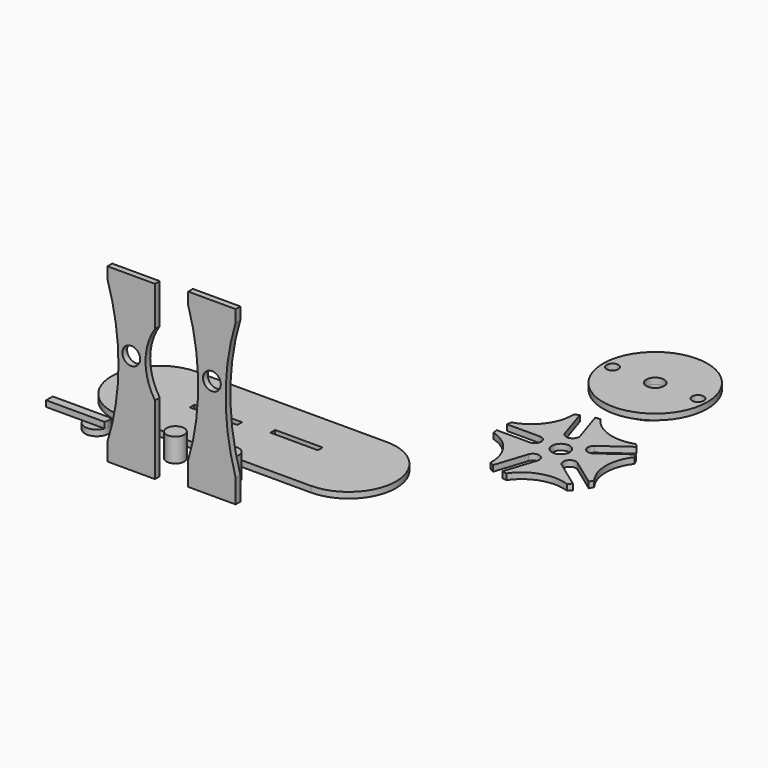
from build123d import *

# Parameters (mm, degrees)
F1_DEPTH  = 3.175
F2_R      = 4.7625
F4_DEPTH  = 3.175
F5_DEPTH  = 3.175
F2_R_2    = 27.94
F2_R_3    = 3.175
F6_DEPTH  = 3.175
F8_DEPTH  = 3.175
F7_W      = 25.4
F7_H      = 3.175
F9_DEPTH  = 3.175
F10_DEPTH = 3.175
F11_DEPTH = 88.9
F13_DEPTH = 3.175
F14_DEPTH = 3.175
F16_DEPTH = 3.175
F17_DEPTH = 3.175
F12_R     = 4.7625
F18_DEPTH = 3.175
F15_R     = 4.7625
F19_DEPTH = 3.175
F20_DEPTH = 3.175
F21_R     = 4.7625
F22_DEPTH = 12.7
F21_R_2   = 6.35
F23_DEPTH = 3.175
F25_DEPTH = 3.175
F26_DEPTH = 12.7


with BuildPart() as f1:
    # F0 (on Top) → F1 (new body)
    with BuildSketch(Plane.XY):
        with BuildLine():
            Line((63.5, 25.4), (-38.1, 25.4))
            ThreePointArc((-38.1, 25.4), (-63.5, 0), (-38.1, -25.4))
            Line((-38.1, -25.4), (63.5, -25.4))
            ThreePointArc((63.5, -25.4), (88.9, 0), (63.5, 25.4))
        make_face()
    extrude(amount=F1_DEPTH)

    # F7 (on face) → F9 (cut)
    with BuildSketch(Plane.XY.offset(3.175)):
        with Locations((-7.62, 0)):
            Rectangle(F7_W, F7_H)
    extrude(amount=-F9_DEPTH, mode=Mode.SUBTRACT)

    # F7 (on face) → F10 (cut)
    with BuildSketch(Plane.XY.offset(3.175)):
        with Locations((33.02, 3.175)):
            Rectangle(F7_W, F7_H)
    extrude(amount=-F10_DEPTH, mode=Mode.SUBTRACT)


with BuildPart() as f4:
    # F2 (on Top) → F4 (new body)
    with BuildSketch(Plane.XY):
        with BuildLine():
            ThreePointArc((120.3612832322, 34.4193587213), (131.809729009, 42.968420609), (146.0967287001, 42.7813118451))
            ThreePointArc((146.0967287001, 42.7813118451), (147.0032712022, 43.6680444399), (147.873681045, 44.5902703929))
            Line((147.873681045, 44.5902703929), (133.639600716, 54.9319350989))
            ThreePointArc((133.639600716, 54.9319350989), (132.8809970724, 59.7215700028), (137.6706319762, 60.4801736464))
            Line((137.6706319762, 60.4801736464), (151.9047123053, 50.1385089403))
            ThreePointArc((151.9047123053, 50.1385089403), (152.5128298738, 51.2513013853), (153.076025647, 52.3874899805))
            ThreePointArc((153.076025647, 52.3874899805), (148.4831489347, 65.9174143472), (153.076025647, 79.4473387139))
            ThreePointArc((153.076025647, 79.4473387139), (152.5128298738, 80.583527309), (151.9047123053, 81.6963197541))
            Line((151.9047123053, 81.6963197541), (137.6706319762, 71.354655048))
            ThreePointArc((137.6706319762, 71.354655048), (132.8809970724, 72.1132586916), (133.639600716, 76.9028935954))
            Line((133.639600716, 76.9028935954), (147.873681045, 87.2445583015))
            ThreePointArc((147.873681045, 87.2445583015), (147.0032712022, 88.1667842544), (146.0967287001, 89.0535168493))
            ThreePointArc((146.0967287001, 89.0535168493), (131.809729009, 88.8664080854), (120.3612832322, 97.4154699731))
            ThreePointArc((120.3612832322, 97.4154699731), (119.1066666, 97.2309405477), (117.8604194306, 96.9964581482))
            Line((117.8604194306, 96.9964581482), (123.2973543177, 80.2632931535))
            ThreePointArc((123.2973543177, 80.2632931535), (121.095800797, 75.9425010854), (116.7750087289, 78.1440546061))
            Line((116.7750087289, 78.1440546061), (111.3380738418, 94.8772196008))
            ThreePointArc((111.3380738418, 94.8772196008), (110.1920134063, 94.33439414), (109.0685435545, 93.7462364274))
            ThreePointArc((109.0685435545, 93.7462364274), (104.8315688605, 80.100672485), (93.1631635397, 71.8543589368))
            ThreePointArc((93.1631635397, 71.8543589368), (92.9509635914, 70.6041248848), (92.7888580509, 69.3464143472))
            Line((92.7888580509, 69.3464143472), (110.3831489347, 69.3464143472))
            ThreePointArc((110.3831489347, 69.3464143472), (113.8121489347, 65.9174143472), (110.3831489347, 62.4884143472))
            Line((110.3831489347, 62.4884143472), (92.7888580509, 62.4884143472))
            ThreePointArc((92.7888580509, 62.4884143472), (92.9509635914, 61.2307038095), (93.1631635397, 59.9804697575))
            ThreePointArc((93.1631635397, 59.9804697575), (104.8315688605, 51.7341562094), (109.0685435545, 38.088592267))
            ThreePointArc((109.0685435545, 38.088592267), (110.1920134063, 37.5004345544), (111.3380738418, 36.9576090936))
            Line((111.3380738418, 36.9576090936), (116.7750087289, 53.6907740882))
            ThreePointArc((116.7750087289, 53.6907740882), (121.095800797, 55.8923276089), (123.2973543177, 51.5715355408))
            Line((123.2973543177, 51.5715355408), (117.8604194306, 34.8383705461))
            ThreePointArc((117.8604194306, 34.8383705461), (119.1066666, 34.6038881466), (120.3612832322, 34.4193587213))
        make_face()
        with Locations((124.3531489347, 65.9174143472)):
            Circle(F2_R, mode=Mode.SUBTRACT)
    extrude(amount=F4_DEPTH)

    # F2 (on Top) → F8 (join)
    with BuildSketch(Plane.XY):
        with BuildLine():
            ThreePointArc((120.3612832322, 34.4193587213), (131.809729009, 42.968420609), (146.0967287001, 42.7813118451))
            ThreePointArc((146.0967287001, 42.7813118451), (147.0032712022, 43.6680444399), (147.873681045, 44.5902703929))
            Line((147.873681045, 44.5902703929), (133.639600716, 54.9319350989))
            ThreePointArc((133.639600716, 54.9319350989), (132.8809970724, 59.7215700028), (137.6706319762, 60.4801736464))
            Line((137.6706319762, 60.4801736464), (151.9047123053, 50.1385089403))
            ThreePointArc((151.9047123053, 50.1385089403), (152.5128298738, 51.2513013853), (153.076025647, 52.3874899805))
            ThreePointArc((153.076025647, 52.3874899805), (148.4831489347, 65.9174143472), (153.076025647, 79.4473387139))
            ThreePointArc((153.076025647, 79.4473387139), (152.5128298738, 80.583527309), (151.9047123053, 81.6963197541))
            Line((151.9047123053, 81.6963197541), (137.6706319762, 71.354655048))
            ThreePointArc((137.6706319762, 71.354655048), (132.8809970724, 72.1132586916), (133.639600716, 76.9028935954))
            Line((133.639600716, 76.9028935954), (147.873681045, 87.2445583015))
            ThreePointArc((147.873681045, 87.2445583015), (147.0032712022, 88.1667842544), (146.0967287001, 89.0535168493))
            ThreePointArc((146.0967287001, 89.0535168493), (131.809729009, 88.8664080854), (120.3612832322, 97.4154699731))
            ThreePointArc((120.3612832322, 97.4154699731), (119.1066666, 97.2309405477), (117.8604194306, 96.9964581482))
            Line((117.8604194306, 96.9964581482), (123.2973543177, 80.2632931535))
            ThreePointArc((123.2973543177, 80.2632931535), (121.095800797, 75.9425010854), (116.7750087289, 78.1440546061))
            Line((116.7750087289, 78.1440546061), (111.3380738418, 94.8772196008))
            ThreePointArc((111.3380738418, 94.8772196008), (110.1920134063, 94.33439414), (109.0685435545, 93.7462364274))
            ThreePointArc((109.0685435545, 93.7462364274), (104.8315688605, 80.100672485), (93.1631635397, 71.8543589368))
            ThreePointArc((93.1631635397, 71.8543589368), (92.9509635914, 70.6041248848), (92.7888580509, 69.3464143472))
            Line((92.7888580509, 69.3464143472), (110.3831489347, 69.3464143472))
            ThreePointArc((110.3831489347, 69.3464143472), (113.8121489347, 65.9174143472), (110.3831489347, 62.4884143472))
            Line((110.3831489347, 62.4884143472), (92.7888580509, 62.4884143472))
            ThreePointArc((92.7888580509, 62.4884143472), (92.9509635914, 61.2307038095), (93.1631635397, 59.9804697575))
            ThreePointArc((93.1631635397, 59.9804697575), (104.8315688605, 51.7341562094), (109.0685435545, 38.088592267))
            ThreePointArc((109.0685435545, 38.088592267), (110.1920134063, 37.5004345544), (111.3380738418, 36.9576090936))
            Line((111.3380738418, 36.9576090936), (116.7750087289, 53.6907740882))
            ThreePointArc((116.7750087289, 53.6907740882), (121.095800797, 55.8923276089), (123.2973543177, 51.5715355408))
            Line((123.2973543177, 51.5715355408), (117.8604194306, 34.8383705461))
            ThreePointArc((117.8604194306, 34.8383705461), (119.1066666, 34.6038881466), (120.3612832322, 34.4193587213))
        make_face()
        with Locations((124.3531489347, 65.9174143472)):
            Circle(F2_R, mode=Mode.SUBTRACT)
    extrude(amount=F8_DEPTH)


with BuildPart() as f5:
    # F2 (on Top) → F5 (new body)
    with BuildSketch(Plane.XY):
        with BuildLine():
            ThreePointArc((130.021378454, 118.8906994246), (124.068253454, 137.399717233), (130.021378454, 155.9087350415))
            ThreePointArc((130.021378454, 155.9087350415), (117.718253454, 159.624717233), (105.415128454, 155.9087350415))
            ThreePointArc((105.415128454, 155.9087350415), (111.368253454, 137.399717233), (105.415128454, 118.8906994246))
            ThreePointArc((105.415128454, 118.8906994246), (117.718253454, 115.174717233), (130.021378454, 118.8906994246))
        make_face()
        with Locations((117.718253454, 137.399717233)):
            Circle(F2_R, mode=Mode.SUBTRACT)
    extrude(amount=F5_DEPTH)

    # F2 (on Top) → F6 (join)
    with BuildSketch(Plane.XY):
        with Locations((117.718253454, 137.399717233)):
            Circle(F2_R_2)
        with Locations((94.858253454, 137.399717233)):
            Circle(F2_R_3, mode=Mode.SUBTRACT)
        with BuildLine():
            ThreePointArc((105.415128454, 155.9087350415), (117.718253454, 159.624717233), (130.021378454, 155.9087350415))
            ThreePointArc((130.021378454, 155.9087350415), (124.068253454, 137.399717233), (130.021378454, 118.8906994246))
            ThreePointArc((130.021378454, 118.8906994246), (117.718253454, 115.174717233), (105.415128454, 118.8906994246))
            ThreePointArc((105.415128454, 118.8906994246), (111.368253454, 137.399717233), (105.415128454, 155.9087350415))
        make_face(mode=Mode.SUBTRACT)
        with Locations((140.578253454, 137.399717233)):
            Circle(F2_R_3, mode=Mode.SUBTRACT)
    extrude(amount=F6_DEPTH)


with BuildPart() as f11:
    # F7 (on face) → F11 (new body)
    with BuildSketch(Plane.XY.offset(3.175)):
        with Locations((-7.62, -55.0611902535)):
            Rectangle(F7_W, F7_H)
    extrude(amount=F11_DEPTH)

    # F7 (on face) → F13 (join)
    with BuildSketch(Plane.XY.offset(3.175)):
        with Locations((-7.62, -55.0611902535)):
            Rectangle(F7_W, F7_H)
    extrude(amount=-F13_DEPTH)

    # F15 (on face) → F16 (cut)
    with BuildSketch(Plane.XZ.offset(56.6486902535)):
        with BuildLine():
            Line((5.08, 37.126546065), (5.08, 70.823453935))
            ThreePointArc((5.08, 70.823453935), (0, 53.975), (5.08, 37.126546065))
        make_face()
        with BuildLine():
            ThreePointArc((-20.32, 9.525), (-14.47027858, 47.625), (-20.32, 85.725))
            Line((-20.32, 85.725), (-20.32, 9.525))
        make_face()
    extrude(amount=-F16_DEPTH, mode=Mode.SUBTRACT)

    # F15 (on face) → F19 (cut)
    with BuildSketch(Plane.XZ.offset(56.6486902535)):
        with Locations((-7.62, 53.975)):
            Circle(F15_R)
    extrude(amount=-F19_DEPTH, mode=Mode.SUBTRACT)


with BuildPart() as f11b:
    # F7 (on face) → F11, piece 2 (new body)
    with BuildSketch(Plane.XY.offset(3.175)):
        with Locations((33.02, -51.8861902535)):
            Rectangle(F7_W, F7_H)
    extrude(amount=F11_DEPTH)

    # F7 (on face) → F14 (join)
    with BuildSketch(Plane.XY.offset(3.175)):
        with Locations((33.02, -51.8861902535)):
            Rectangle(F7_W, F7_H)
    extrude(amount=-F14_DEPTH)

    # F12 (on face) → F17 (cut)
    with BuildSketch(Plane.XZ.offset(53.4736902535)):
        with BuildLine():
            Line((20.32, 85.725), (20.32, 12.7))
            ThreePointArc((20.32, 12.7), (25.681859009, 49.2125), (20.32, 85.725))
        make_face()
        with BuildLine():
            ThreePointArc((45.72, 85.725), (40.358140991, 49.2125), (45.72, 12.7))
            Line((45.72, 12.7), (45.72, 85.725))
        make_face()
    extrude(amount=-F17_DEPTH, mode=Mode.SUBTRACT)

    # F12 (on face) → F18 (cut)
    with BuildSketch(Plane.XZ.offset(53.4736902535)):
        with Locations((33.02, 53.975)):
            Circle(F12_R)
    extrude(amount=-F18_DEPTH, mode=Mode.SUBTRACT)


with BuildPart() as f20:
    # F2 (on Top) → F20 (new body)
    with BuildSketch(Plane.XY):
        with BuildLine():
            ThreePointArc((130.021378454, 118.8906994246), (124.068253454, 137.399717233), (130.021378454, 155.9087350415))
            ThreePointArc((130.021378454, 155.9087350415), (117.718253454, 159.624717233), (105.415128454, 155.9087350415))
            ThreePointArc((105.415128454, 155.9087350415), (111.368253454, 137.399717233), (105.415128454, 118.8906994246))
            ThreePointArc((105.415128454, 118.8906994246), (117.718253454, 115.174717233), (130.021378454, 118.8906994246))
        make_face()
        with Locations((117.718253454, 137.399717233)):
            Circle(F2_R, mode=Mode.SUBTRACT)
    extrude(amount=-F20_DEPTH)


with BuildPart() as f22:
    # F21 (on Top) → F22 (new body)
    with BuildSketch(Plane.XY):
        with Locations((29.3921194971, -36.6132743657)):
            Circle(F21_R)
    extrude(amount=F22_DEPTH)


with BuildPart() as f23:
    # F21 (on Top) → F23 (new body)
    with BuildSketch(Plane.XY):
        with Locations((-42.0832447708, -36.6132743657)):
            Circle(F21_R_2)
    extrude(amount=F23_DEPTH)


with BuildPart() as f25:
    # F24 (on face) → F25 (new body)
    with BuildSketch(Plane.XY.offset(3.175)):
        with BuildLine():
            Line((-67.4832447708, -34.3907743657), (-67.4832447708, -38.8357743657))
            Line((-67.4832447708, -38.8357743657), (-48.0316053642, -38.8357743657))
            ThreePointArc((-48.0316053642, -38.8357743657), (-48.4332447708, -36.6132743657), (-48.0316053642, -34.3907743657))
            Line((-48.0316053642, -34.3907743657), (-67.4832447708, -34.3907743657))
        make_face()
        with BuildLine():
            ThreePointArc((-48.0316053642, -34.3907743657), (-48.4332447708, -36.6132743657), (-48.0316053642, -38.8357743657))
            Line((-48.0316053642, -38.8357743657), (-36.1348841773, -38.8357743657))
            ThreePointArc((-36.1348841773, -38.8357743657), (-35.8344612984, -37.7425241678), (-35.7332447708, -36.6132743657))
            ThreePointArc((-35.7332447708, -36.6132743657), (-35.8344612984, -35.4840245635), (-36.1348841773, -34.3907743657))
            Line((-36.1348841773, -34.3907743657), (-48.0316053642, -34.3907743657))
        make_face()
    extrude(amount=F25_DEPTH)


with BuildPart() as f26:
    # F21 (on Top) → F26 (new body)
    with BuildSketch(Plane.XY):
        with Locations((0, -36.6132743657)):
            Circle(F21_R)
    extrude(amount=F26_DEPTH)


solid = Compound([f1.part, f4.part, f5.part, f11.part, f11b.part, f20.part, f22.part, f23.part, f25.part, f26.part])
